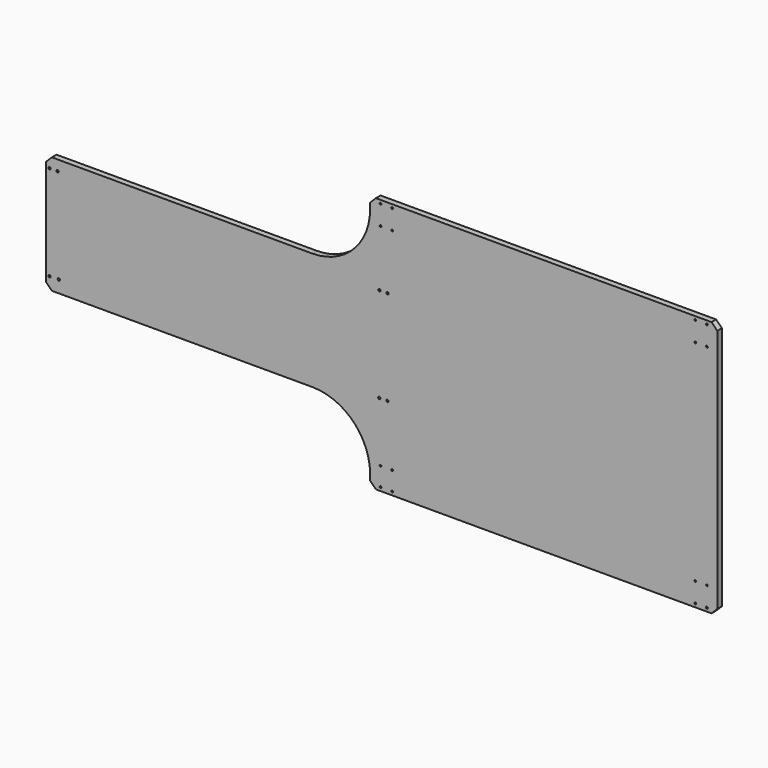
from build123d import *

# Parameters (mm, degrees)
F1_DEPTH = 12.7
F2_SIZE  = 12.7
F4_R     = 1.9812
F4_R_2   = 2.067369
F4_R_3   = 1.772036
F4_R_4   = 2.051504
F5_DEPTH = 12.701
F6_R     = 2.54
F7_DEPTH = 12.701


with BuildPart() as f1:
    # F0 (on Front) → F1 (new body)
    with BuildSketch(Plane.XZ):
        with BuildLine():
            Line((0, 25.4), (0, 0))
            Line((0, 0), (762, 0))
            Line((762, 0), (762, 562.7624))
            Line((762, 562.7624), (0, 562.7624))
            Line((0, 562.7624), (0, 537.3624))
            ThreePointArc((0, 537.3624), (-37.197439, 447.559839), (-127, 410.3624))
            Line((-127, 410.3624), (-711.2, 410.3624))
            Line((-711.2, 410.3624), (-711.2, 152.4))
            Line((-711.2, 152.4), (-127, 152.4))
            ThreePointArc((-127, 152.4), (-37.197439, 115.202561), (0, 25.4))
        make_face()
    extrude(amount=F1_DEPTH)

    # F2
    f2_edges = [f1.edges().sort_by_distance(p)[0] for p in [
        (-711.2, -6.35, 410.3624),
        (-711.2, -6.35, 152.4),
        (0, -6.35, 0),
        (0, -6.35, 562.7624),
        (762, -6.35, 562.7624),
        (762, -6.35, 0),
    ]]
    chamfer(f2_edges, length=F2_SIZE)

    # F4 (on face) → F5 (cut, through all)
    with BuildSketch(Plane.XZ.offset(12.7)):
        with Locations((713.74, 7.62)):
            Circle(F4_R)
        with Locations((739.14, 7.62)):
            Circle(F4_R_2)
        with Locations((739.14, 50.8)):
            Circle(F4_R_3)
        with Locations((713.74, 50.8)):
            Circle(F4_R_4)
        with Locations((713.74, 555.1424)):
            Circle(F4_R)
        with Locations((739.14, 555.1424)):
            Circle(F4_R)
        with Locations((739.14, 511.9624)):
            Circle(F4_R)
        with Locations((713.74, 511.9624)):
            Circle(F4_R)
        with Locations((22.86, 555.1424)):
            Circle(F4_R)
        with Locations((48.26, 555.1424)):
            Circle(F4_R)
        with Locations((48.26, 511.9624)):
            Circle(F4_R)
        with Locations((22.86, 511.9624)):
            Circle(F4_R)
        with Locations((22.86, 7.62)):
            Circle(F4_R)
        with Locations((48.26, 7.62)):
            Circle(F4_R)
        with Locations((48.26, 48.8188)):
            Circle(F4_R)
        with Locations((22.86, 48.8188)):
            Circle(F4_R)
    extrude(amount=-F5_DEPTH, mode=Mode.SUBTRACT)

    # F6 (on face) → F7 (cut, through all)
    with BuildSketch(Plane.XZ.offset(12.7)):
        with Locations((-703.58, 387.4008)):
            Circle(F6_R)
        with Locations((-685.8, 387.4008)):
            Circle(F6_R)
        with Locations((20.32, 387.4008)):
            Circle(F6_R)
        with Locations((38.1, 387.4008)):
            Circle(F6_R)
        with Locations((-703.58, 179.1208)):
            Circle(F6_R)
        with Locations((-683.26, 179.1208)):
            Circle(F6_R)
        with Locations((20.32, 179.1208)):
            Circle(F6_R)
        with Locations((38.1, 179.1208)):
            Circle(F6_R)
    extrude(amount=-F7_DEPTH, mode=Mode.SUBTRACT)


solid = f1.part
